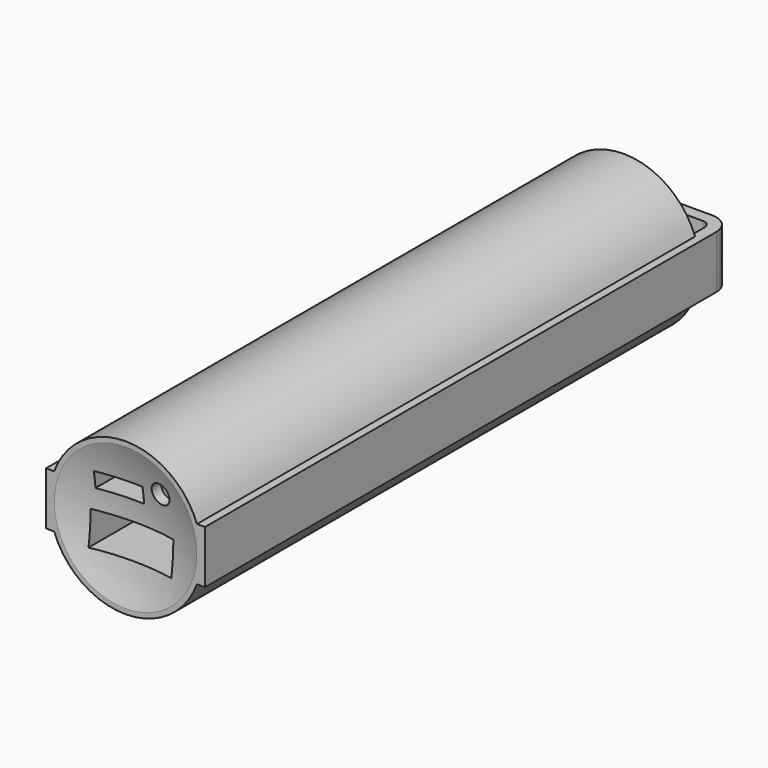
from build123d import *

# Parameters (mm, degrees)
SKETCH_R        = 11.5
PAD_DEPTH       = 94
PAD001_DEPTH    = 4
SKETCH004_R     = 1.5
POCKET_DEPTH    = 3
SKETCH003_W     = 7
SKETCH003_H     = 2.4
POCKET001_DEPTH = 7
SKETCH002_W     = 12.5
SKETCH002_H     = 5
POCKET002_DEPTH = 11


with BuildPart() as part:
    # Sketch → Pad (new body)
    with BuildSketch(Plane.XZ):
        Circle(SKETCH_R)
    extrude(amount=-PAD_DEPTH)

    # Sketch001 → Pad001 (join, symmetric)
    with BuildSketch(Plane.XY):
        with BuildLine():
            Line((-12, 0), (-12, 94))
            Line((-12, 94), (-12, 96.5))
            ThreePointArc((-9, 99.5), (-11.1213203436, 98.6213203436), (-12, 96.5))
            Line((-9, 99.5), (9, 99.5))
            ThreePointArc((12, 96.5), (11.1213203436, 98.6213203436), (9, 99.5))
            Line((12, 96.5), (12, 94))
            Line((12, 94), (12, 0))
            Line((10.2, 0), (12, 0))
            Line((10.2, 96.5), (10.2, 0))
            ThreePointArc((10.2, 96.5), (9.8485281374, 97.3485281374), (9, 97.7))
            Line((-9, 97.7), (9, 97.7))
            ThreePointArc((-9, 97.7), (-9.8485281374, 97.3485281374), (-10.2, 96.5))
            Line((-10.2, 0), (-10.2, 96.5))
            Line((-12, 0), (-10.2, 0))
        make_face()
    extrude(amount=PAD001_DEPTH, both=True)

    # Sphere → Sphere (revolve, cut)
    with BuildSketch(Plane(origin=(0, -31.2, 0), x_dir=(0.956304756, 0.2923717047, 0), z_dir=(0.0254818731, -0.0833474513, -0.9961946981))):
        with BuildLine():
            ThreePointArc((0, -33), (33, 0), (0, 33))
            Line((0, 33), (0, -33))
        make_face()
    revolve(axis=Axis((0, -31.2, 0), (0.2912591421, -0.9526657277, 0.0871557427)), mode=Mode.SUBTRACT)

    # Sketch004 → Pocket (cut)
    with BuildSketch(Plane.XZ):
        with Locations((4.5, 5.5)):
            Circle(SKETCH004_R)
    extrude(amount=-POCKET_DEPTH, mode=Mode.SUBTRACT)

    # Sketch003 → Pocket001 (cut)
    with BuildSketch(Plane.XZ):
        with Locations((-2, 4.2)):
            Rectangle(SKETCH003_W, SKETCH003_H)
    extrude(amount=-POCKET001_DEPTH, mode=Mode.SUBTRACT)

    # Sketch002 → Pocket002 (cut)
    with BuildSketch(Plane.XZ):
        with Locations((0, -2.5)):
            Rectangle(SKETCH002_W, SKETCH002_H)
    extrude(amount=-POCKET002_DEPTH, mode=Mode.SUBTRACT)


solid = part.part
